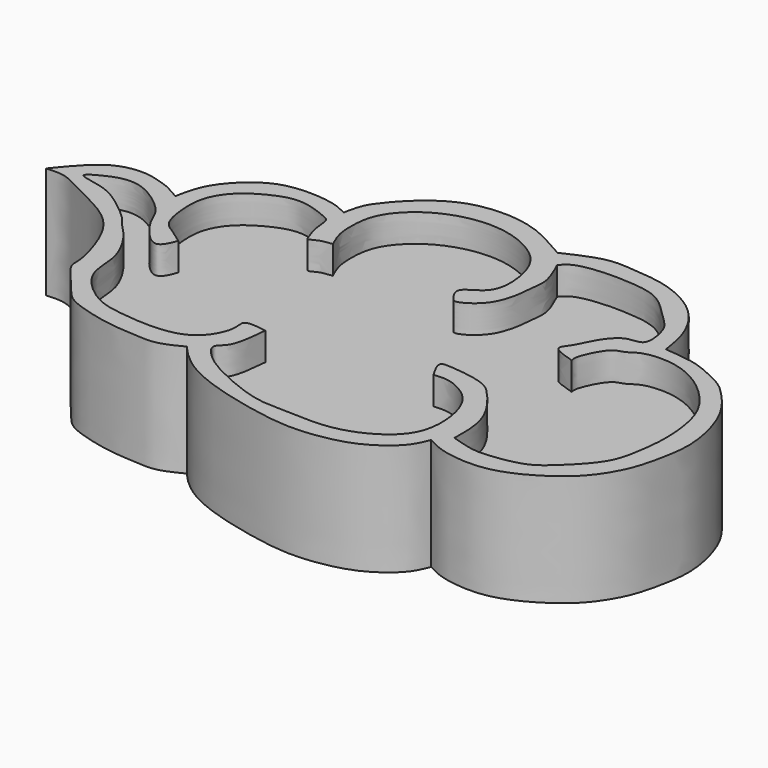
from build123d import *

# Parameters (mm, degrees)
F1_DEPTH = 8
F2_DEPTH = 6


with BuildPart() as f1:
    # F0 (on Top) → F1 (new body)
    with BuildSketch(Plane.XY):
        with BuildLine():
            add(Edge.make_bspline(
                [(13.4397661313, 33.9675806463), (13.0712809966, 34.1899813), (12.3821647861, 34.6059001018), (11.4236085984, 34.8617610267), (10.5733017682, 35.1529560728), (8.1014095924, 35.0359963345), (6.5744467558, 33.1472562051), (5.7044993155, 32.0711955428)],
                knots=[0, 0, 0, 0, 0.1733318937, 0.3241536943, 0.4688520518, 0.6973922437, 1, 1, 1, 1], degree=3))
            add(Edge.make_bspline(
                [(5.7044993155, 32.0711955428), (6.1640375439, 32.1030880253), (7.0809038351, 32.1690791261), (8.4787919266, 31.325717861), (9.823166287, 30.7030373689), (12.1178997748, 29.4979798492), (13.4696552294, 27.2600622999), (14.2048925518, 24.4836818182), (13.9593592338, 23.711397014), (16.0295179282, 21.5096637352), (16.7588200662, 20.3727191177), (20.3643888008, 19.4795748742), (22.1103900397, 19.4807731555), (23.6173274681, 19.2906374112), (24.7220540448, 19.8451905), (25.3171417862, 20.1439131051)],
                knots=[0, 0, 0, 0, 0.0643876618, 0.1332124902, 0.2016241354, 0.288641749, 0.3804390275, 0.4713406243, 0.5195276869, 0.6112411357, 0.6795547976, 0.7829278534, 0.8583995742, 0.923946279, 1, 1, 1, 1], degree=3))
            add(Edge.make_bspline(
                [(25.3171417862, 20.1439131051), (25.51614187, 19.9162897391), (25.9670237624, 19.400555003), (27.1936555135, 18.3789361573), (29.4276453967, 17.3319326173), (33.0617199818, 16.4413023479), (36.0608595061, 16.0079863779), (38.8592464412, 16.4242032812), (40.6333405699, 17.0876790489), (42.4633148876, 18.4378149359), (42.8559819963, 19.4069119751), (43.0333986878, 19.8451905)],
                knots=[0, 0, 0, 0, 0.0738915866, 0.1674228092, 0.2865524981, 0.4333774149, 0.5669118004, 0.6916580933, 0.7967244898, 0.9081153798, 1, 1, 1, 1], degree=3))
            add(Edge.make_bspline(
                [(43.0333986878, 19.8451905), (43.2569467506, 19.7246145887), (43.7576449748, 19.4553430364), (44.934326955, 19.0624668127), (47.7291339582, 18.8080772246), (50.5816743578, 20.2489613157), (52.1867657319, 21.5135425326), (53.2136350996, 22.8240317294), (54.0533341866, 24.4164445302), (54.552289645, 26.6845462433), (54.846159963, 28.8775418379), (53.9395988914, 32.3549987444), (52.3280806572, 34.2410862282), (51.3247860127, 35.2143676187), (50.0934297032, 35.7764782303), (48.6665204979, 36.4261883996), (47.2192757431, 36.5466134773), (46.4269332588, 36.6125442088)],
                knots=[0, 0, 0, 0, 0.0422032594, 0.0944968095, 0.1735980436, 0.2589710893, 0.3269338765, 0.3872796451, 0.4510720025, 0.5228968232, 0.5945200305, 0.6841353838, 0.7591002975, 0.8144226703, 0.8687439335, 0.9281402432, 1, 1, 1, 1], degree=3))
            add(Edge.make_bspline(
                [(46.4269332588, 36.6125442088), (46.3176766064, 37.3405642859), (46.0857734618, 38.885826213), (44.5173262624, 41.383697636), (41.5617782694, 42.8318430468), (39.0545108193, 42.9795843791), (37.0864506398, 43.2068632387), (35.3581792643, 42.3998602611), (34.3998409808, 41.9523715973)],
                knots=[0, 0, 0, 0, 0.1556503952, 0.330376369, 0.5163458529, 0.6793683721, 0.8222075721, 1, 1, 1, 1], degree=3))
            add(Edge.make_bspline(
                [(34.3998409808, 41.9523715973), (34.082905548, 42.1359623124), (33.2913940656, 42.5944599877), (30.8439036129, 43.9224876744), (26.5090681111, 43.8731315787), (23.8303143871, 41.6187523387), (22.8882582045, 40.4397831429), (22.2979336558, 39.6316881824), (22.1201766075, 38.7754117033), (22.0234170556, 38.3093096316)],
                knots=[0, 0, 0, 0, 0.1101267924, 0.2750295855, 0.4815932632, 0.6658063883, 0.7865373467, 0.8838046036, 1, 1, 1, 1], degree=3))
            add(Edge.make_bspline(
                [(22.0234170556, 38.3093096316), (21.6303724104, 38.4969264706), (20.6988734292, 38.9415703465), (17.9359052153, 39.0686218642), (16.2652910442, 38.3963682589), (14.9329898398, 37.3079404817), (13.8063569674, 35.8118707449), (13.5623716849, 34.5843996885), (13.4397661313, 33.9675806463)],
                knots=[0, 0, 0, 0, 0.1463418852, 0.3468240024, 0.5105870202, 0.6682548174, 0.8332940359, 1, 1, 1, 1], degree=3))
        make_face()
        with BuildLine():
            add(Edge.make_bspline(
                [(27.5268573314, 24.4035162032), (26.8731913632, 24.5012377426), (25.7293609472, 24.6722377252), (26.1934582398, 23.4378528184), (25.1026188121, 21.2355714163), (22.530214079, 20.72982455), (19.8669818132, 20.9788971479), (17.7931392725, 21.360287269), (15.2964914503, 23.6493916562), (15.670330018, 26.1009421715), (14.2054194211, 28.5169778722), (13.2811473646, 29.3402537362), (12.8366238135, 30.0522099398), (11.2977690006, 31.3301553944), (9.7103751665, 32.4002980709), (7.2607984544, 32.584523155), (8.7846513585, 33.4257814983), (9.9045092214, 33.8828332161), (11.5200992751, 33.8106884185), (13.9095803047, 31.9703860475), (14.0605284318, 30.7959308327), (16.2256206309, 28.0100244374), (16.7564195208, 29.3222853533), (16.9470086694, 29.8431552947)],
                knots=[0, 0, 0, 0, 0.0431474096, 0.075655679, 0.1280843547, 0.1839482848, 0.2413439941, 0.2928324548, 0.3539071394, 0.4083002684, 0.4662530266, 0.5046998733, 0.5361060413, 0.5848507795, 0.6372794551, 0.6820364847, 0.7172661971, 0.7578726792, 0.8019147641, 0.8603366348, 0.9021533205, 0.9595235499, 1, 1, 1, 1], degree=3))
            add(Edge.make_bspline(
                [(16.9470086694, 29.8431552947), (16.6520854346, 30.0694447325), (16.0637978439, 30.5208275109), (14.9979818341, 31.0715680701), (14.6874072822, 33.0839216418), (14.745204005, 34.811578976), (15.7620209796, 36.3990469133), (17.4740231414, 37.4487690747), (19.3280069208, 38.0864537959), (21.3014059346, 37.3048884791), (21.961291557, 37.0045970139), (21.8994791674, 35.9170799147), (22.3149469206, 34.7826477002), (22.4601255751, 34.4198396174), (23.1157001681, 34.8859301754), (23.6507566009, 34.8930180463), (23.9337012172, 34.9334590137)],
                knots=[0, 0, 0, 0, 0.0679349615, 0.1355926149, 0.2245584775, 0.3100081498, 0.3959214618, 0.4867168679, 0.5768115456, 0.6685866544, 0.7189573855, 0.7837928004, 0.8558789031, 0.8881167488, 0.940098757, 1, 1, 1, 1], degree=3))
            add(Edge.make_bspline(
                [(23.9337012172, 34.9334590137), (23.7535768302, 35.3176883671), (23.4116136229, 36.1120324102), (23.3659869714, 37.2756528064), (23.434399392, 38.4018506471), (23.8661888743, 39.6076067822), (25.1946216878, 41.0756463445), (27.5196236297, 42.2107823165), (30.6394015829, 42.416707008), (33.7170818796, 40.895274953), (34.6500155604, 38.6523680973), (34.742092333, 35.7927969591), (32.4278403809, 35.1609133182), (33.3256213589, 33.9698569372), (33.6039316733, 33.6120747146), (35.627059652, 34.7446800672), (35.9240806285, 37.266780732), (35.9426028969, 37.8112129394), (36.1577285439, 38.9287071039), (35.6246936374, 40.0907769164), (35.3120267391, 40.7723374665)],
                knots=[0, 0, 0, 0, 0.0489990191, 0.0955017124, 0.1409901954, 0.1890883762, 0.2489136173, 0.3180233964, 0.394249723, 0.4716472268, 0.5385979093, 0.6072784258, 0.6637605383, 0.7077039238, 0.7336934206, 0.7944493996, 0.8622252531, 0.894390463, 0.9376998685, 1, 1, 1, 1], degree=3))
            add(Edge.make_bspline(
                [(35.3120267391, 40.7723374665), (35.4584310122, 40.9515299296), (35.8296025156, 41.4058322671), (37.6403456052, 41.751511014), (39.783250695, 41.7096039267), (41.9754443211, 41.4454648569), (43.3672972505, 40.045913427), (44.3182362524, 39.1235507733), (44.9261009475, 38.4139613247), (45.3144711015, 36.1517420291), (43.7204889645, 36.5014207682), (42.5546875973, 34.9435584675), (42.1320159395, 33.7327414411), (41.2457252766, 32.8396402202), (42.4687272776, 32.506992128), (43.1471057236, 32.2884954512)],
                knots=[0, 0, 0, 0, 0.0547759783, 0.1387375251, 0.2340384743, 0.3271471256, 0.4152037684, 0.4868815327, 0.5508089672, 0.6349249982, 0.7013176497, 0.7866395303, 0.8620524284, 0.918258384, 1, 1, 1, 1], degree=3))
            add(Edge.make_bspline(
                [(43.1471057236, 32.2884954512), (43.1029468426, 32.4881477943), (43.047209035, 32.8081594787), (43.9575684762, 34.8074559675), (44.8890697794, 34.8436739642), (45.6239507661, 35.5847973825), (48.3120780381, 35.6954164974), (50.7949382619, 34.1717267489), (52.3264504037, 32.3533981439), (52.960777851, 30.6123330372), (53.2193369798, 28.1858263162), (52.9498969968, 26.0631938045), (52.6025944852, 24.2027425419), (51.2092768629, 22.5886911059), (50.1998878089, 21.657524458), (49.1345166295, 20.7762885038), (47.1776475081, 20.4314693956), (45.5648812975, 20.2967666694), (44.5294888666, 20.6803215597), (43.8956804574, 20.8602640778)],
                knots=[0, 0, 0, 0, 0.0332075771, 0.0963929295, 0.1371289354, 0.1800280022, 0.2508337876, 0.3277795965, 0.3957594406, 0.4561674559, 0.5257231745, 0.5915208038, 0.6527223086, 0.7171456784, 0.7697336648, 0.8213993715, 0.8839681622, 0.9406209703, 1, 1, 1, 1], degree=3))
            add(Edge.make_bspline(
                [(43.8956804574, 20.8602640778), (43.9095031236, 21.2553147958), (43.9408156949, 22.150225628), (43.6448594592, 24.1323847553), (42.0292699301, 26.1805776882), (41.1111132387, 27.0496688897), (39.3426903561, 27.3741612413), (38.4053601018, 27.4432177342), (37.3861848368, 27.5040877058), (37.8995244115, 26.6256253549), (38.2065139711, 26.1002834886)],
                knots=[0, 0, 0, 0, 0.1172921648, 0.2657026656, 0.4332937276, 0.5520139756, 0.6887101972, 0.7964530938, 0.878273996, 1, 1, 1, 1], degree=3))
            add(Edge.make_bspline(
                [(38.2065139711, 26.1002834886), (38.5344715153, 26.1283024066), (39.2268760507, 26.1874577034), (40.4087084502, 25.6941018425), (41.5468887284, 24.7577770139), (42.2522017947, 22.8094089718), (42.1842697925, 20.0352219073), (40.0923568929, 18.2341746976), (37.3792379617, 17.3078732483), (34.1365598112, 17.5600686092), (32.2765605001, 17.500315716), (29.2176552338, 18.7123460269), (27.2448737636, 19.8429713587), (26.1706239184, 21.1666415709), (27.2790153167, 21.7085610548), (27.4296817131, 23.3468594737), (27.5268573314, 24.4035162032)],
                knots=[0, 0, 0, 0, 0.0504403523, 0.1064928352, 0.1665142025, 0.2382892326, 0.3198090465, 0.4002859327, 0.486086697, 0.5756092877, 0.6452445037, 0.7354086211, 0.8146788111, 0.8713415382, 0.917018885, 1, 1, 1, 1], degree=3))
        make_face(mode=Mode.SUBTRACT)
    extrude(amount=F1_DEPTH)

    # F0 (on Top) → F2 (join)
    with BuildSketch(Plane.XY):
        with BuildLine():
            add(Edge.make_bspline(
                [(13.4397661313, 33.9675806463), (13.0712809966, 34.1899813), (12.3821647861, 34.6059001018), (11.4236085984, 34.8617610267), (10.5733017682, 35.1529560728), (8.1014095924, 35.0359963345), (6.5744467558, 33.1472562051), (5.7044993155, 32.0711955428)],
                knots=[0, 0, 0, 0, 0.1733318937, 0.3241536943, 0.4688520518, 0.6973922437, 1, 1, 1, 1], degree=3))
            add(Edge.make_bspline(
                [(5.7044993155, 32.0711955428), (6.1640375439, 32.1030880253), (7.0809038351, 32.1690791261), (8.4787919266, 31.325717861), (9.823166287, 30.7030373689), (12.1178997748, 29.4979798492), (13.4696552294, 27.2600622999), (14.2048925518, 24.4836818182), (13.9593592338, 23.711397014), (16.0295179282, 21.5096637352), (16.7588200662, 20.3727191177), (20.3643888008, 19.4795748742), (22.1103900397, 19.4807731555), (23.6173274681, 19.2906374112), (24.7220540448, 19.8451905), (25.3171417862, 20.1439131051)],
                knots=[0, 0, 0, 0, 0.0643876618, 0.1332124902, 0.2016241354, 0.288641749, 0.3804390275, 0.4713406243, 0.5195276869, 0.6112411357, 0.6795547976, 0.7829278534, 0.8583995742, 0.923946279, 1, 1, 1, 1], degree=3))
            add(Edge.make_bspline(
                [(25.3171417862, 20.1439131051), (25.51614187, 19.9162897391), (25.9670237624, 19.400555003), (27.1936555135, 18.3789361573), (29.4276453967, 17.3319326173), (33.0617199818, 16.4413023479), (36.0608595061, 16.0079863779), (38.8592464412, 16.4242032812), (40.6333405699, 17.0876790489), (42.4633148876, 18.4378149359), (42.8559819963, 19.4069119751), (43.0333986878, 19.8451905)],
                knots=[0, 0, 0, 0, 0.0738915866, 0.1674228092, 0.2865524981, 0.4333774149, 0.5669118004, 0.6916580933, 0.7967244898, 0.9081153798, 1, 1, 1, 1], degree=3))
            add(Edge.make_bspline(
                [(43.0333986878, 19.8451905), (43.2569467506, 19.7246145887), (43.7576449748, 19.4553430364), (44.934326955, 19.0624668127), (47.7291339582, 18.8080772246), (50.5816743578, 20.2489613157), (52.1867657319, 21.5135425326), (53.2136350996, 22.8240317294), (54.0533341866, 24.4164445302), (54.552289645, 26.6845462433), (54.846159963, 28.8775418379), (53.9395988914, 32.3549987444), (52.3280806572, 34.2410862282), (51.3247860127, 35.2143676187), (50.0934297032, 35.7764782303), (48.6665204979, 36.4261883996), (47.2192757431, 36.5466134773), (46.4269332588, 36.6125442088)],
                knots=[0, 0, 0, 0, 0.0422032594, 0.0944968095, 0.1735980436, 0.2589710893, 0.3269338765, 0.3872796451, 0.4510720025, 0.5228968232, 0.5945200305, 0.6841353838, 0.7591002975, 0.8144226703, 0.8687439335, 0.9281402432, 1, 1, 1, 1], degree=3))
            add(Edge.make_bspline(
                [(46.4269332588, 36.6125442088), (46.3176766064, 37.3405642859), (46.0857734618, 38.885826213), (44.5173262624, 41.383697636), (41.5617782694, 42.8318430468), (39.0545108193, 42.9795843791), (37.0864506398, 43.2068632387), (35.3581792643, 42.3998602611), (34.3998409808, 41.9523715973)],
                knots=[0, 0, 0, 0, 0.1556503952, 0.330376369, 0.5163458529, 0.6793683721, 0.8222075721, 1, 1, 1, 1], degree=3))
            add(Edge.make_bspline(
                [(34.3998409808, 41.9523715973), (34.082905548, 42.1359623124), (33.2913940656, 42.5944599877), (30.8439036129, 43.9224876744), (26.5090681111, 43.8731315787), (23.8303143871, 41.6187523387), (22.8882582045, 40.4397831429), (22.2979336558, 39.6316881824), (22.1201766075, 38.7754117033), (22.0234170556, 38.3093096316)],
                knots=[0, 0, 0, 0, 0.1101267924, 0.2750295855, 0.4815932632, 0.6658063883, 0.7865373467, 0.8838046036, 1, 1, 1, 1], degree=3))
            add(Edge.make_bspline(
                [(22.0234170556, 38.3093096316), (21.6303724104, 38.4969264706), (20.6988734292, 38.9415703465), (17.9359052153, 39.0686218642), (16.2652910442, 38.3963682589), (14.9329898398, 37.3079404817), (13.8063569674, 35.8118707449), (13.5623716849, 34.5843996885), (13.4397661313, 33.9675806463)],
                knots=[0, 0, 0, 0, 0.1463418852, 0.3468240024, 0.5105870202, 0.6682548174, 0.8332940359, 1, 1, 1, 1], degree=3))
        make_face()
        with BuildLine():
            add(Edge.make_bspline(
                [(27.5268573314, 24.4035162032), (26.8731913632, 24.5012377426), (25.7293609472, 24.6722377252), (26.1934582398, 23.4378528184), (25.1026188121, 21.2355714163), (22.530214079, 20.72982455), (19.8669818132, 20.9788971479), (17.7931392725, 21.360287269), (15.2964914503, 23.6493916562), (15.670330018, 26.1009421715), (14.2054194211, 28.5169778722), (13.2811473646, 29.3402537362), (12.8366238135, 30.0522099398), (11.2977690006, 31.3301553944), (9.7103751665, 32.4002980709), (7.2607984544, 32.584523155), (8.7846513585, 33.4257814983), (9.9045092214, 33.8828332161), (11.5200992751, 33.8106884185), (13.9095803047, 31.9703860475), (14.0605284318, 30.7959308327), (16.2256206309, 28.0100244374), (16.7564195208, 29.3222853533), (16.9470086694, 29.8431552947)],
                knots=[0, 0, 0, 0, 0.0431474096, 0.075655679, 0.1280843547, 0.1839482848, 0.2413439941, 0.2928324548, 0.3539071394, 0.4083002684, 0.4662530266, 0.5046998733, 0.5361060413, 0.5848507795, 0.6372794551, 0.6820364847, 0.7172661971, 0.7578726792, 0.8019147641, 0.8603366348, 0.9021533205, 0.9595235499, 1, 1, 1, 1], degree=3))
            add(Edge.make_bspline(
                [(16.9470086694, 29.8431552947), (16.6520854346, 30.0694447325), (16.0637978439, 30.5208275109), (14.9979818341, 31.0715680701), (14.6874072822, 33.0839216418), (14.745204005, 34.811578976), (15.7620209796, 36.3990469133), (17.4740231414, 37.4487690747), (19.3280069208, 38.0864537959), (21.3014059346, 37.3048884791), (21.961291557, 37.0045970139), (21.8994791674, 35.9170799147), (22.3149469206, 34.7826477002), (22.4601255751, 34.4198396174), (23.1157001681, 34.8859301754), (23.6507566009, 34.8930180463), (23.9337012172, 34.9334590137)],
                knots=[0, 0, 0, 0, 0.0679349615, 0.1355926149, 0.2245584775, 0.3100081498, 0.3959214618, 0.4867168679, 0.5768115456, 0.6685866544, 0.7189573855, 0.7837928004, 0.8558789031, 0.8881167488, 0.940098757, 1, 1, 1, 1], degree=3))
            add(Edge.make_bspline(
                [(23.9337012172, 34.9334590137), (23.7535768302, 35.3176883671), (23.4116136229, 36.1120324102), (23.3659869714, 37.2756528064), (23.434399392, 38.4018506471), (23.8661888743, 39.6076067822), (25.1946216878, 41.0756463445), (27.5196236297, 42.2107823165), (30.6394015829, 42.416707008), (33.7170818796, 40.895274953), (34.6500155604, 38.6523680973), (34.742092333, 35.7927969591), (32.4278403809, 35.1609133182), (33.3256213589, 33.9698569372), (33.6039316733, 33.6120747146), (35.627059652, 34.7446800672), (35.9240806285, 37.266780732), (35.9426028969, 37.8112129394), (36.1577285439, 38.9287071039), (35.6246936374, 40.0907769164), (35.3120267391, 40.7723374665)],
                knots=[0, 0, 0, 0, 0.0489990191, 0.0955017124, 0.1409901954, 0.1890883762, 0.2489136173, 0.3180233964, 0.394249723, 0.4716472268, 0.5385979093, 0.6072784258, 0.6637605383, 0.7077039238, 0.7336934206, 0.7944493996, 0.8622252531, 0.894390463, 0.9376998685, 1, 1, 1, 1], degree=3))
            add(Edge.make_bspline(
                [(35.3120267391, 40.7723374665), (35.4584310122, 40.9515299296), (35.8296025156, 41.4058322671), (37.6403456052, 41.751511014), (39.783250695, 41.7096039267), (41.9754443211, 41.4454648569), (43.3672972505, 40.045913427), (44.3182362524, 39.1235507733), (44.9261009475, 38.4139613247), (45.3144711015, 36.1517420291), (43.7204889645, 36.5014207682), (42.5546875973, 34.9435584675), (42.1320159395, 33.7327414411), (41.2457252766, 32.8396402202), (42.4687272776, 32.506992128), (43.1471057236, 32.2884954512)],
                knots=[0, 0, 0, 0, 0.0547759783, 0.1387375251, 0.2340384743, 0.3271471256, 0.4152037684, 0.4868815327, 0.5508089672, 0.6349249982, 0.7013176497, 0.7866395303, 0.8620524284, 0.918258384, 1, 1, 1, 1], degree=3))
            add(Edge.make_bspline(
                [(43.1471057236, 32.2884954512), (43.1029468426, 32.4881477943), (43.047209035, 32.8081594787), (43.9575684762, 34.8074559675), (44.8890697794, 34.8436739642), (45.6239507661, 35.5847973825), (48.3120780381, 35.6954164974), (50.7949382619, 34.1717267489), (52.3264504037, 32.3533981439), (52.960777851, 30.6123330372), (53.2193369798, 28.1858263162), (52.9498969968, 26.0631938045), (52.6025944852, 24.2027425419), (51.2092768629, 22.5886911059), (50.1998878089, 21.657524458), (49.1345166295, 20.7762885038), (47.1776475081, 20.4314693956), (45.5648812975, 20.2967666694), (44.5294888666, 20.6803215597), (43.8956804574, 20.8602640778)],
                knots=[0, 0, 0, 0, 0.0332075771, 0.0963929295, 0.1371289354, 0.1800280022, 0.2508337876, 0.3277795965, 0.3957594406, 0.4561674559, 0.5257231745, 0.5915208038, 0.6527223086, 0.7171456784, 0.7697336648, 0.8213993715, 0.8839681622, 0.9406209703, 1, 1, 1, 1], degree=3))
            add(Edge.make_bspline(
                [(43.8956804574, 20.8602640778), (43.9095031236, 21.2553147958), (43.9408156949, 22.150225628), (43.6448594592, 24.1323847553), (42.0292699301, 26.1805776882), (41.1111132387, 27.0496688897), (39.3426903561, 27.3741612413), (38.4053601018, 27.4432177342), (37.3861848368, 27.5040877058), (37.8995244115, 26.6256253549), (38.2065139711, 26.1002834886)],
                knots=[0, 0, 0, 0, 0.1172921648, 0.2657026656, 0.4332937276, 0.5520139756, 0.6887101972, 0.7964530938, 0.878273996, 1, 1, 1, 1], degree=3))
            add(Edge.make_bspline(
                [(38.2065139711, 26.1002834886), (38.5344715153, 26.1283024066), (39.2268760507, 26.1874577034), (40.4087084502, 25.6941018425), (41.5468887284, 24.7577770139), (42.2522017947, 22.8094089718), (42.1842697925, 20.0352219073), (40.0923568929, 18.2341746976), (37.3792379617, 17.3078732483), (34.1365598112, 17.5600686092), (32.2765605001, 17.500315716), (29.2176552338, 18.7123460269), (27.2448737636, 19.8429713587), (26.1706239184, 21.1666415709), (27.2790153167, 21.7085610548), (27.4296817131, 23.3468594737), (27.5268573314, 24.4035162032)],
                knots=[0, 0, 0, 0, 0.0504403523, 0.1064928352, 0.1665142025, 0.2382892326, 0.3198090465, 0.4002859327, 0.486086697, 0.5756092877, 0.6452445037, 0.7354086211, 0.8146788111, 0.8713415382, 0.917018885, 1, 1, 1, 1], degree=3))
        make_face(mode=Mode.SUBTRACT)
        with BuildLine():
            add(Edge.make_bspline(
                [(16.9470086694, 29.8431552947), (16.6520854346, 30.0694447325), (16.0637978439, 30.5208275109), (14.9979818341, 31.0715680701), (14.6874072822, 33.0839216418), (14.745204005, 34.811578976), (15.7620209796, 36.3990469133), (17.4740231414, 37.4487690747), (19.3280069208, 38.0864537959), (21.3014059346, 37.3048884791), (21.961291557, 37.0045970139), (21.8994791674, 35.9170799147), (22.3149469206, 34.7826477002), (22.4601255751, 34.4198396174), (23.1157001681, 34.8859301754), (23.6507566009, 34.8930180463), (23.9337012172, 34.9334590137)],
                knots=[0, 0, 0, 0, 0.0679349615, 0.1355926149, 0.2245584775, 0.3100081498, 0.3959214618, 0.4867168679, 0.5768115456, 0.6685866544, 0.7189573855, 0.7837928004, 0.8558789031, 0.8881167488, 0.940098757, 1, 1, 1, 1], degree=3))
            add(Edge.make_bspline(
                [(27.5268573314, 24.4035162032), (26.8731913632, 24.5012377426), (25.7293609472, 24.6722377252), (26.1934582398, 23.4378528184), (25.1026188121, 21.2355714163), (22.530214079, 20.72982455), (19.8669818132, 20.9788971479), (17.7931392725, 21.360287269), (15.2964914503, 23.6493916562), (15.670330018, 26.1009421715), (14.2054194211, 28.5169778722), (13.2811473646, 29.3402537362), (12.8366238135, 30.0522099398), (11.2977690006, 31.3301553944), (9.7103751665, 32.4002980709), (7.2607984544, 32.584523155), (8.7846513585, 33.4257814983), (9.9045092214, 33.8828332161), (11.5200992751, 33.8106884185), (13.9095803047, 31.9703860475), (14.0605284318, 30.7959308327), (16.2256206309, 28.0100244374), (16.7564195208, 29.3222853533), (16.9470086694, 29.8431552947)],
                knots=[0, 0, 0, 0, 0.0431474096, 0.075655679, 0.1280843547, 0.1839482848, 0.2413439941, 0.2928324548, 0.3539071394, 0.4083002684, 0.4662530266, 0.5046998733, 0.5361060413, 0.5848507795, 0.6372794551, 0.6820364847, 0.7172661971, 0.7578726792, 0.8019147641, 0.8603366348, 0.9021533205, 0.9595235499, 1, 1, 1, 1], degree=3))
            add(Edge.make_bspline(
                [(38.2065139711, 26.1002834886), (38.5344715153, 26.1283024066), (39.2268760507, 26.1874577034), (40.4087084502, 25.6941018425), (41.5468887284, 24.7577770139), (42.2522017947, 22.8094089718), (42.1842697925, 20.0352219073), (40.0923568929, 18.2341746976), (37.3792379617, 17.3078732483), (34.1365598112, 17.5600686092), (32.2765605001, 17.500315716), (29.2176552338, 18.7123460269), (27.2448737636, 19.8429713587), (26.1706239184, 21.1666415709), (27.2790153167, 21.7085610548), (27.4296817131, 23.3468594737), (27.5268573314, 24.4035162032)],
                knots=[0, 0, 0, 0, 0.0504403523, 0.1064928352, 0.1665142025, 0.2382892326, 0.3198090465, 0.4002859327, 0.486086697, 0.5756092877, 0.6452445037, 0.7354086211, 0.8146788111, 0.8713415382, 0.917018885, 1, 1, 1, 1], degree=3))
            add(Edge.make_bspline(
                [(43.8956804574, 20.8602640778), (43.9095031236, 21.2553147958), (43.9408156949, 22.150225628), (43.6448594592, 24.1323847553), (42.0292699301, 26.1805776882), (41.1111132387, 27.0496688897), (39.3426903561, 27.3741612413), (38.4053601018, 27.4432177342), (37.3861848368, 27.5040877058), (37.8995244115, 26.6256253549), (38.2065139711, 26.1002834886)],
                knots=[0, 0, 0, 0, 0.1172921648, 0.2657026656, 0.4332937276, 0.5520139756, 0.6887101972, 0.7964530938, 0.878273996, 1, 1, 1, 1], degree=3))
            add(Edge.make_bspline(
                [(43.1471057236, 32.2884954512), (43.1029468426, 32.4881477943), (43.047209035, 32.8081594787), (43.9575684762, 34.8074559675), (44.8890697794, 34.8436739642), (45.6239507661, 35.5847973825), (48.3120780381, 35.6954164974), (50.7949382619, 34.1717267489), (52.3264504037, 32.3533981439), (52.960777851, 30.6123330372), (53.2193369798, 28.1858263162), (52.9498969968, 26.0631938045), (52.6025944852, 24.2027425419), (51.2092768629, 22.5886911059), (50.1998878089, 21.657524458), (49.1345166295, 20.7762885038), (47.1776475081, 20.4314693956), (45.5648812975, 20.2967666694), (44.5294888666, 20.6803215597), (43.8956804574, 20.8602640778)],
                knots=[0, 0, 0, 0, 0.0332075771, 0.0963929295, 0.1371289354, 0.1800280022, 0.2508337876, 0.3277795965, 0.3957594406, 0.4561674559, 0.5257231745, 0.5915208038, 0.6527223086, 0.7171456784, 0.7697336648, 0.8213993715, 0.8839681622, 0.9406209703, 1, 1, 1, 1], degree=3))
            add(Edge.make_bspline(
                [(35.3120267391, 40.7723374665), (35.4584310122, 40.9515299296), (35.8296025156, 41.4058322671), (37.6403456052, 41.751511014), (39.783250695, 41.7096039267), (41.9754443211, 41.4454648569), (43.3672972505, 40.045913427), (44.3182362524, 39.1235507733), (44.9261009475, 38.4139613247), (45.3144711015, 36.1517420291), (43.7204889645, 36.5014207682), (42.5546875973, 34.9435584675), (42.1320159395, 33.7327414411), (41.2457252766, 32.8396402202), (42.4687272776, 32.506992128), (43.1471057236, 32.2884954512)],
                knots=[0, 0, 0, 0, 0.0547759783, 0.1387375251, 0.2340384743, 0.3271471256, 0.4152037684, 0.4868815327, 0.5508089672, 0.6349249982, 0.7013176497, 0.7866395303, 0.8620524284, 0.918258384, 1, 1, 1, 1], degree=3))
            add(Edge.make_bspline(
                [(23.9337012172, 34.9334590137), (23.7535768302, 35.3176883671), (23.4116136229, 36.1120324102), (23.3659869714, 37.2756528064), (23.434399392, 38.4018506471), (23.8661888743, 39.6076067822), (25.1946216878, 41.0756463445), (27.5196236297, 42.2107823165), (30.6394015829, 42.416707008), (33.7170818796, 40.895274953), (34.6500155604, 38.6523680973), (34.742092333, 35.7927969591), (32.4278403809, 35.1609133182), (33.3256213589, 33.9698569372), (33.6039316733, 33.6120747146), (35.627059652, 34.7446800672), (35.9240806285, 37.266780732), (35.9426028969, 37.8112129394), (36.1577285439, 38.9287071039), (35.6246936374, 40.0907769164), (35.3120267391, 40.7723374665)],
                knots=[0, 0, 0, 0, 0.0489990191, 0.0955017124, 0.1409901954, 0.1890883762, 0.2489136173, 0.3180233964, 0.394249723, 0.4716472268, 0.5385979093, 0.6072784258, 0.6637605383, 0.7077039238, 0.7336934206, 0.7944493996, 0.8622252531, 0.894390463, 0.9376998685, 1, 1, 1, 1], degree=3))
        make_face()
    extrude(amount=F2_DEPTH)


solid = f1.part
